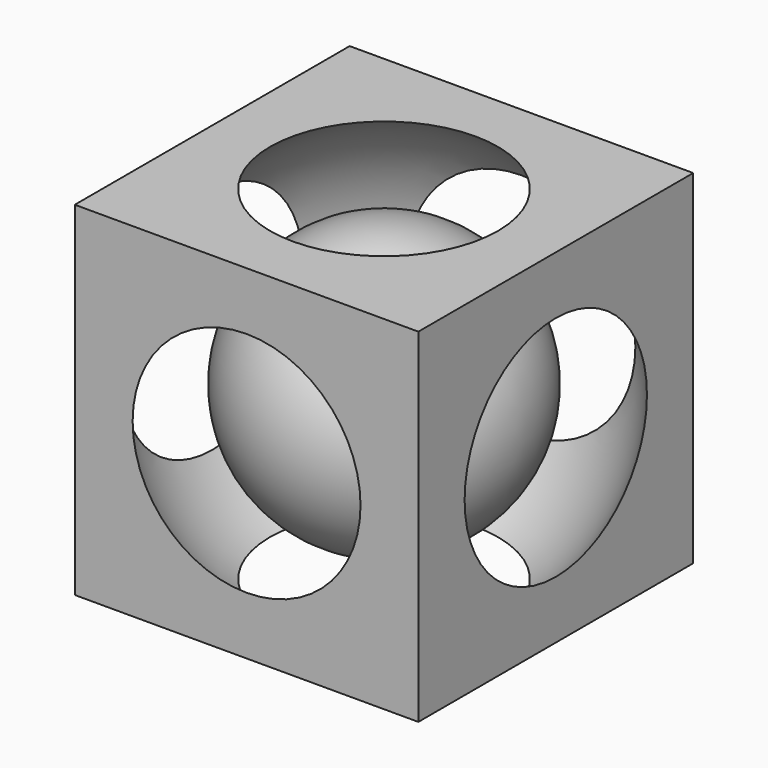
from build123d import *

# Parameters (mm, degrees)
BOX_W     = 10
BOX_H     = 10
BOX_DEPTH = 10


with BuildPart() as sphere:
    # Sphere → Sphere (revolve)
    with BuildSketch(Plane(origin=(5, 5, 5), x_dir=(1, 0, 0), z_dir=(0, -1, 0))):
        with BuildLine():
            ThreePointArc((0, -6), (6, 0), (0, 6))
            Line((0, 6), (0, -6))
        make_face()
    revolve(axis=Axis((5, 5, 5), (0, 0, 1)))


with BuildPart() as cut:
    # Box → Box (new body)
    with BuildSketch(Plane.XY):
        with Locations((5, 5)):
            Rectangle(BOX_W, BOX_H)
    extrude(amount=BOX_DEPTH)

    # Cut: cut Sphere
    add(sphere.part, mode=Mode.SUBTRACT)


with BuildPart() as sphere001:
    # Sphere001 → Sphere001 (revolve)
    with BuildSketch(Plane(origin=(5, 5, 5), x_dir=(1, 0, 0), z_dir=(0, -1, 0))):
        with BuildLine():
            ThreePointArc((0, -4), (4, 0), (0, 4))
            Line((0, 4), (0, -4))
        make_face()
    revolve(axis=Axis((5, 5, 5), (0, 0, 1)))


solid = Compound([cut.part, sphere001.part])
